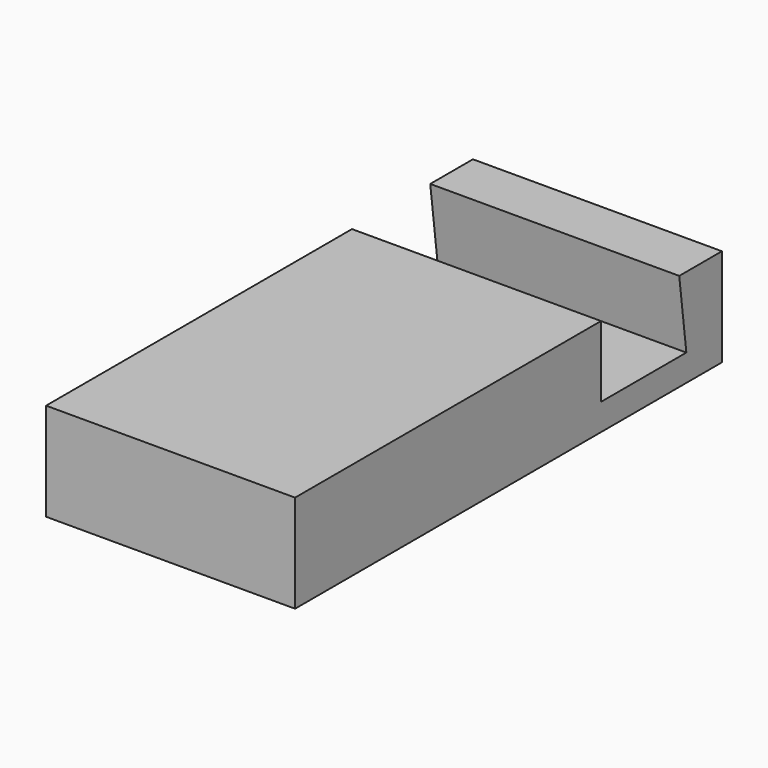
from build123d import *

# Parameters (mm, degrees)
PAD_DEPTH = 14


with BuildPart() as part:
    # Sketch → Pad (new body, symmetric)
    with BuildSketch(Plane.YZ):
        Polygon((0, 11), (0, 0), (60, 0), (60, 11), (54, 11), (55, 3), (43, 3), (43, 11), align=None)
    extrude(amount=PAD_DEPTH, both=True)


solid = part.part
